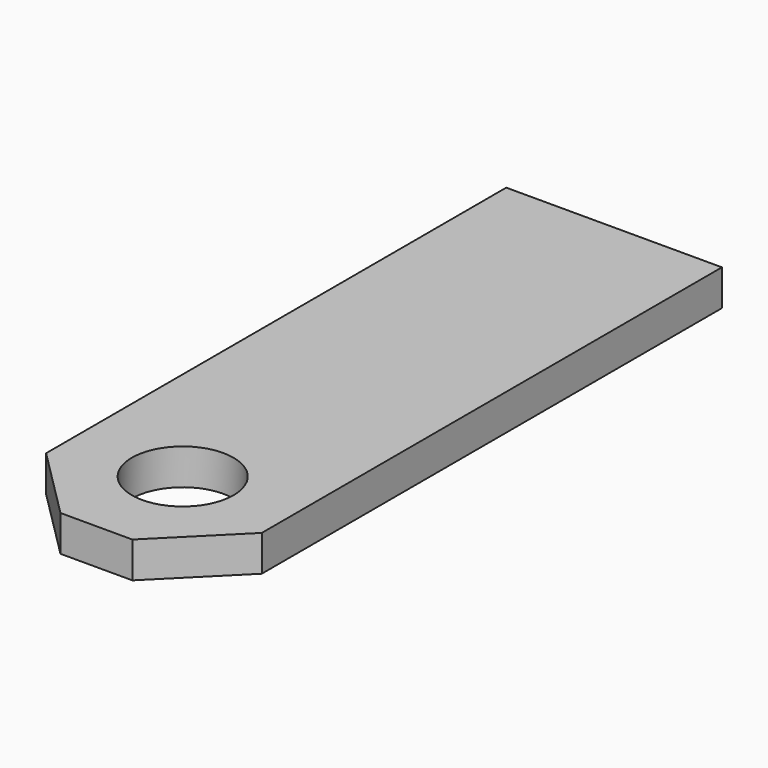
from build123d import *

# Parameters (mm, degrees)
SKETCH258_R      = 0.353553
EXTRUDE060_DEPTH = 2
EXTRUDE059_DEPTH = 0.25


with BuildPart() as extrude060:
    # Sketch258 → Extrude060 (new body)
    with BuildSketch(Plane.XY):
        with Locations((7, -3.25)):
            Circle(SKETCH258_R)
    extrude(amount=EXTRUDE060_DEPTH)


with BuildPart() as cut036:
    # Sketch257 → Extrude059 (new body)
    with BuildSketch(Plane(origin=(0.25, 0, 1), x_dir=(1, 0, 0), z_dir=(0, 0, 1))):
        Polygon((7.5, 0.5), (7.5, -3.5), (7, -4), (6.5, -4), (6, -3.5), (6, 0.5), align=None)
    extrude(amount=EXTRUDE059_DEPTH)


with BuildPart() as cut036_1:
    # Extrude059 placement: moved
    add(cut036.part.moved(Location((0, 0, -0.125))))

    # Cut036: cut Extrude060
    add(extrude060.part, mode=Mode.SUBTRACT)


solid = cut036_1.part
